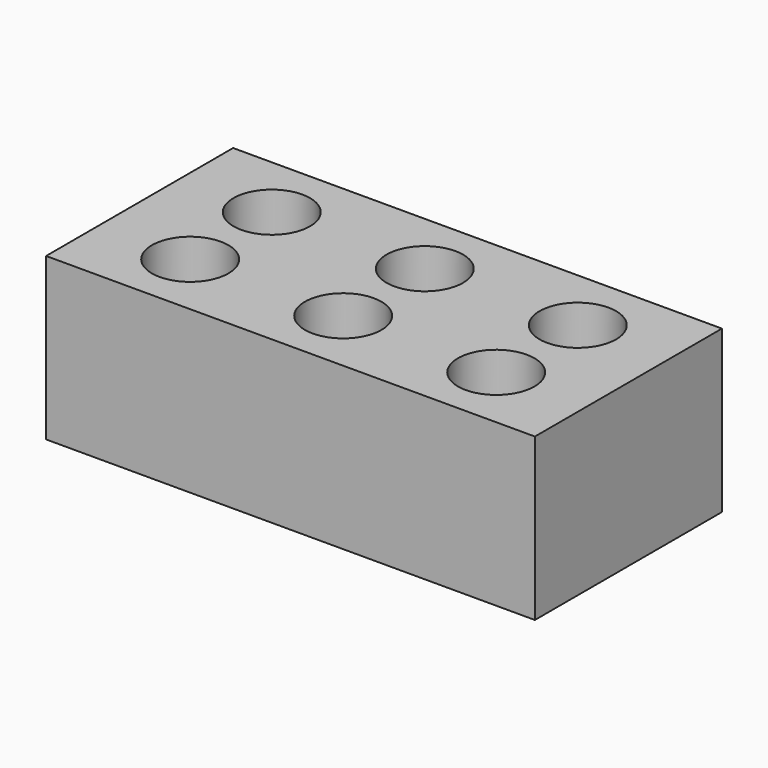
from build123d import *

# Parameters (mm, degrees)
CYLINDER005_R     = 18
CYLINDER005_DEPTH = 76
CYLINDER004_R     = 18
CYLINDER004_DEPTH = 76
CYLINDER003_R     = 18
CYLINDER003_DEPTH = 76
CYLINDER002_R     = 18
CYLINDER002_DEPTH = 76
CYLINDER001_R     = 18
CYLINDER001_DEPTH = 76
CYLINDER_R        = 18
CYLINDER_DEPTH    = 76
BOX_W             = 230
BOX_H             = 110
BOX_DEPTH         = 76


with BuildPart() as cilindre005:
    # Cylinder005 → Cylinder005 (new body)
    with BuildSketch(Plane(origin=(187, 79, 0), x_dir=(1, 0, 0), z_dir=(0, 0, 1))):
        Circle(CYLINDER005_R)
    extrude(amount=CYLINDER005_DEPTH)


with BuildPart() as cilindre004:
    # Cylinder004 → Cylinder004 (new body)
    with BuildSketch(Plane(origin=(187, 31, 0), x_dir=(1, 0, 0), z_dir=(0, 0, 1))):
        Circle(CYLINDER004_R)
    extrude(amount=CYLINDER004_DEPTH)


with BuildPart() as cilindre003:
    # Cylinder003 → Cylinder003 (new body)
    with BuildSketch(Plane(origin=(115, 31, 0), x_dir=(1, 0, 0), z_dir=(0, 0, 1))):
        Circle(CYLINDER003_R)
    extrude(amount=CYLINDER003_DEPTH)


with BuildPart() as cilindre002:
    # Cylinder002 → Cylinder002 (new body)
    with BuildSketch(Plane(origin=(115, 79, 0), x_dir=(1, 0, 0), z_dir=(0, 0, 1))):
        Circle(CYLINDER002_R)
    extrude(amount=CYLINDER002_DEPTH)


with BuildPart() as cilindre001:
    # Cylinder001 → Cylinder001 (new body)
    with BuildSketch(Plane(origin=(43, 31, 0), x_dir=(1, 0, 0), z_dir=(0, 0, 1))):
        Circle(CYLINDER001_R)
    extrude(amount=CYLINDER001_DEPTH)


with BuildPart() as cilindre:
    # Cylinder → Cylinder (new body)
    with BuildSketch(Plane(origin=(43, 79, 0), x_dir=(1, 0, 0), z_dir=(0, 0, 1))):
        Circle(CYLINDER_R)
    extrude(amount=CYLINDER_DEPTH)


with BuildPart() as cut005:
    # Box → Box (new body)
    with BuildSketch(Plane.XY):
        with Locations((115, 55)):
            Rectangle(BOX_W, BOX_H)
    extrude(amount=BOX_DEPTH)

    # Cut: cut Cilindre
    add(cilindre.part, mode=Mode.SUBTRACT)

    # Cut001: cut Cilindre001
    add(cilindre001.part, mode=Mode.SUBTRACT)

    # Cut002: cut Cilindre002
    add(cilindre002.part, mode=Mode.SUBTRACT)

    # Cut003: cut Cilindre003
    add(cilindre003.part, mode=Mode.SUBTRACT)

    # Cut004: cut Cilindre004
    add(cilindre004.part, mode=Mode.SUBTRACT)

    # Cut005: cut Cilindre005
    add(cilindre005.part, mode=Mode.SUBTRACT)


solid = cut005.part
